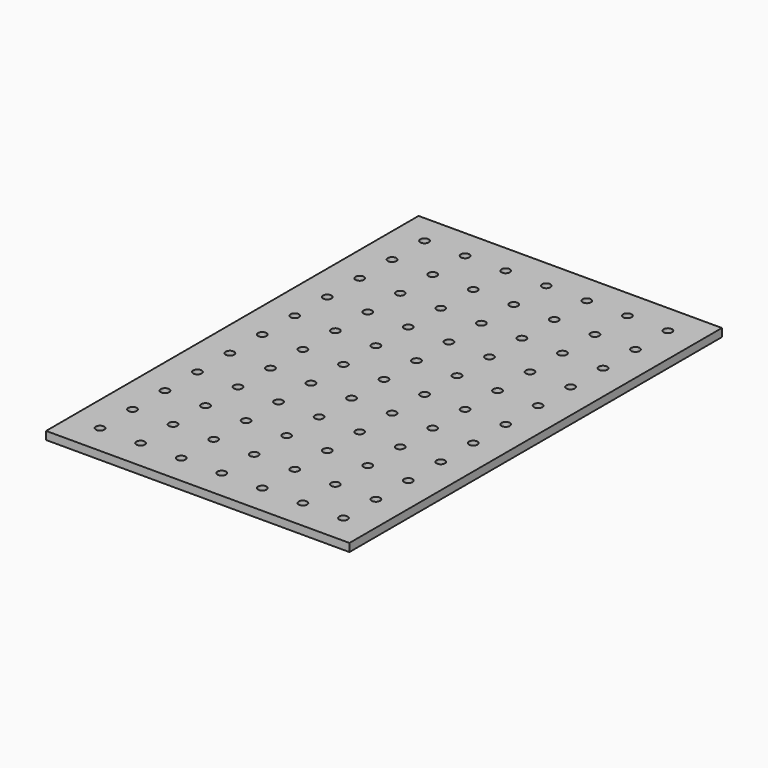
from build123d import *

# Parameters (mm, degrees)
F0_W     = 718
F0_H     = 1102
F1_DEPTH = 19.05
F2_R     = 10
F3_DEPTH = 19.051


with BuildPart() as f1:
    # F0 (on Top) → F1 (new body)
    with BuildSketch(Plane.XY):
        with Locations((359, -551)):
            Rectangle(F0_W, F0_H)
    extrude(amount=-F1_DEPTH)

    # F2 (on face) → F3 (cut, through all)
    with BuildSketch(Plane(origin=(0, 0, -19.05), x_dir=(1, 0, 0), z_dir=(0, 0, -1))):
        with Locations((359, 551)):
            Circle(F2_R)
        with Locations((263, 551)):
            Circle(F2_R)
        with Locations((647, 935)):
            Circle(F2_R)
        with Locations((263, 935)):
            Circle(F2_R)
        with Locations((359, 263)):
            Circle(F2_R)
        with Locations((71, 263)):
            Circle(F2_R)
        with Locations((551, 1031)):
            Circle(F2_R)
        with Locations((647, 167)):
            Circle(F2_R)
        with Locations((263, 743)):
            Circle(F2_R)
        with Locations((71, 71)):
            Circle(F2_R)
        with Locations((455, 359)):
            Circle(F2_R)
        with Locations((647, 263)):
            Circle(F2_R)
        with Locations((263, 839)):
            Circle(F2_R)
        with Locations((359, 71)):
            Circle(F2_R)
        with Locations((71, 359)):
            Circle(F2_R)
        with Locations((263, 167)):
            Circle(F2_R)
        with Locations((647, 455)):
            Circle(F2_R)
        with Locations((455, 71)):
            Circle(F2_R)
        with Locations((455, 1031)):
            Circle(F2_R)
        with Locations((455, 167)):
            Circle(F2_R)
        with Locations((359, 359)):
            Circle(F2_R)
        with Locations((167, 263)):
            Circle(F2_R)
        with Locations((167, 359)):
            Circle(F2_R)
        with Locations((71, 647)):
            Circle(F2_R)
        with Locations((359, 455)):
            Circle(F2_R)
        with Locations((551, 839)):
            Circle(F2_R)
        with Locations((455, 263)):
            Circle(F2_R)
        with Locations((647, 839)):
            Circle(F2_R)
        with Locations((167, 935)):
            Circle(F2_R)
        with Locations((263, 1031)):
            Circle(F2_R)
        with Locations((167, 455)):
            Circle(F2_R)
        with Locations((551, 647)):
            Circle(F2_R)
        with Locations((263, 359)):
            Circle(F2_R)
        with Locations((167, 551)):
            Circle(F2_R)
        with Locations((551, 743)):
            Circle(F2_R)
        with Locations((647, 551)):
            Circle(F2_R)
        with Locations((359, 1031)):
            Circle(F2_R)
        with Locations((71, 743)):
            Circle(F2_R)
        with Locations((71, 551)):
            Circle(F2_R)
        with Locations((647, 743)):
            Circle(F2_R)
        with Locations((71, 839)):
            Circle(F2_R)
        with Locations((551, 71)):
            Circle(F2_R)
        with Locations((647, 71)):
            Circle(F2_R)
        with Locations((359, 167)):
            Circle(F2_R)
        with Locations((167, 167)):
            Circle(F2_R)
        with Locations((167, 647)):
            Circle(F2_R)
        with Locations((167, 839)):
            Circle(F2_R)
        with Locations((71, 167)):
            Circle(F2_R)
        with Locations((647, 359)):
            Circle(F2_R)
        with Locations((263, 71)):
            Circle(F2_R)
        with Locations((647, 1031)):
            Circle(F2_R)
        with Locations((263, 647)):
            Circle(F2_R)
        with Locations((263, 455)):
            Circle(F2_R)
        with Locations((551, 455)):
            Circle(F2_R)
        with Locations((551, 359)):
            Circle(F2_R)
        with Locations((71, 935)):
            Circle(F2_R)
        with Locations((71, 455)):
            Circle(F2_R)
        with Locations((455, 935)):
            Circle(F2_R)
        with Locations((551, 935)):
            Circle(F2_R)
        with Locations((551, 263)):
            Circle(F2_R)
        with Locations((71, 1031)):
            Circle(F2_R)
        with Locations((359, 935)):
            Circle(F2_R)
        with Locations((455, 839)):
            Circle(F2_R)
        with Locations((551, 551)):
            Circle(F2_R)
        with Locations((359, 647)):
            Circle(F2_R)
        with Locations((455, 743)):
            Circle(F2_R)
        with Locations((455, 647)):
            Circle(F2_R)
        with Locations((455, 551)):
            Circle(F2_R)
        with Locations((359, 839)):
            Circle(F2_R)
        with Locations((167, 1031)):
            Circle(F2_R)
        with Locations((647, 647)):
            Circle(F2_R)
        with Locations((359, 743)):
            Circle(F2_R)
        with Locations((167, 743)):
            Circle(F2_R)
        with Locations((167, 71)):
            Circle(F2_R)
        with Locations((551, 167)):
            Circle(F2_R)
        with Locations((263, 263)):
            Circle(F2_R)
        with Locations((455, 455)):
            Circle(F2_R)
    extrude(amount=-F3_DEPTH, mode=Mode.SUBTRACT)


solid = f1.part
